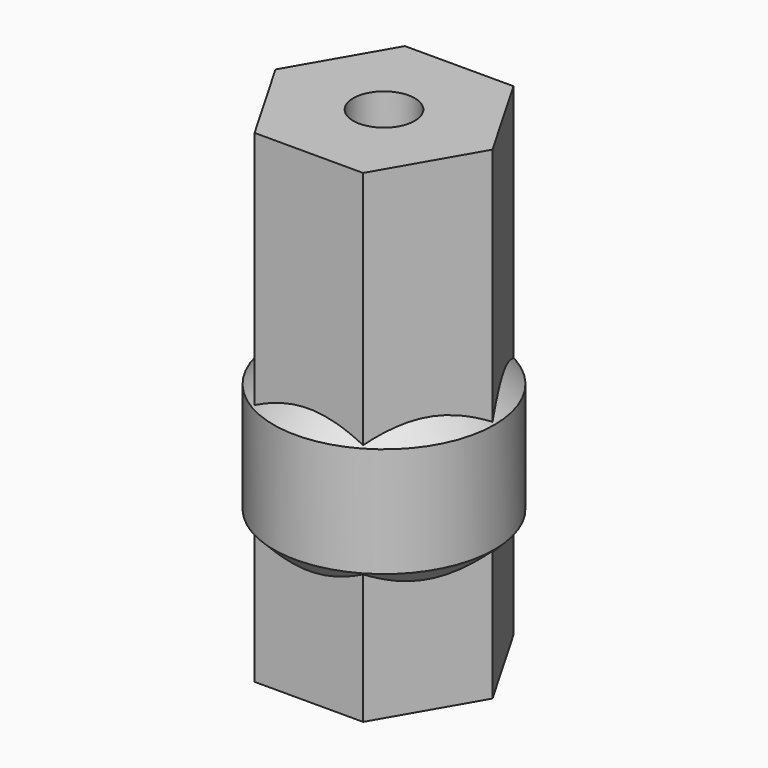
from build123d import *

# Parameters (mm, degrees)
SKETCH024_R          = 5.03
PAD018_DEPTH         = 5
PAD019_DEPTH         = 22
SKETCH027_R          = 1.4
POCKET004_DEPTH      = 0.001
POCKET004_DEPTH_BACK = 22.001


with BuildPart() as part:
    # Sketch024 → Pad018 (new body)
    with BuildSketch(Plane.XY.offset(6)):
        Circle(SKETCH024_R)
    extrude(amount=PAD018_DEPTH)

    # Sketch025 → Pad019 (join)
    with BuildSketch(Plane.XY):
        Polygon((2.47, -4.278165), (4.94, 0), (2.47, 4.278165), (-2.47, 4.278165), (-4.94, 0), (-2.47, -4.278165), align=None)
    extrude(amount=PAD019_DEPTH)

    # Sketch026 → Revolution006 (revolve)
    with BuildSketch(Plane.XZ):
        Polygon((-5.03, 11), (-3.83, 11), (-3.83, 12.2), align=None)
        Polygon((-5.03, 6), (-3.83, 6), (-3.83, 4.8), align=None)
    revolve(axis=Axis((0, 0, 0), (0, 0, 1)))

    # Sketch027 → Pocket004 (cut, two sides)
    with BuildSketch(Plane.XY) as pocket004_sk:
        Circle(SKETCH027_R)
    extrude(amount=-POCKET004_DEPTH, mode=Mode.SUBTRACT)
    extrude(pocket004_sk.sketch, amount=POCKET004_DEPTH_BACK, mode=Mode.SUBTRACT)


solid = part.part
